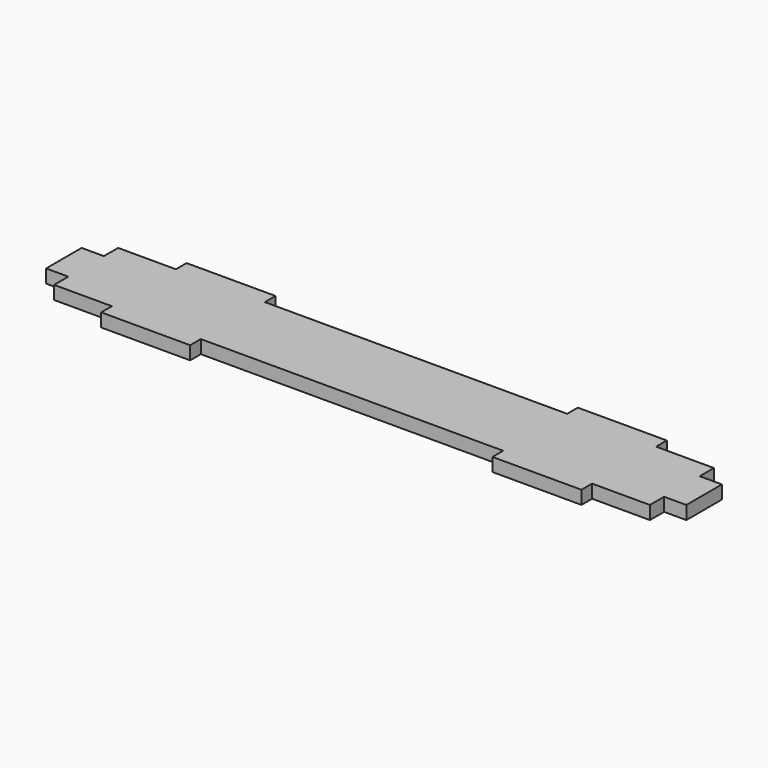
from build123d import *

# Parameters (mm, degrees)
F0_W     = 20
F0_H     = 3
F0_W_2   = 5
F0_H_2   = 10
F1_DEPTH = 3


with BuildPart() as f1:
    # F0 (on Top) → F1 (new body)
    with BuildSketch(Plane.XY):
        with Locations((-44, 10.5)):
            Rectangle(F0_W, F0_H)
        with Locations((44, -10.5)):
            Rectangle(F0_W, F0_H)
        with Locations((69.5, 0)):
            Rectangle(F0_W_2, F0_H_2)
        with Locations((-44, -10.5)):
            Rectangle(F0_W, F0_H)
        with Locations((44, 10.5)):
            Rectangle(F0_W, F0_H)
        with Locations((-69.5, 0)):
            Rectangle(F0_W_2, F0_H_2)
        Polygon((54, -9), (67, -9), (67, -5), (67, 5), (67, 9), (54, 9), (34, 9), (-34, 9), (-54, 9), (-67, 9), (-67, 5), (-67, -5), (-67, -9), (-54, -9), (-34, -9), (34, -9), align=None)
    extrude(amount=F1_DEPTH)


solid = f1.part
